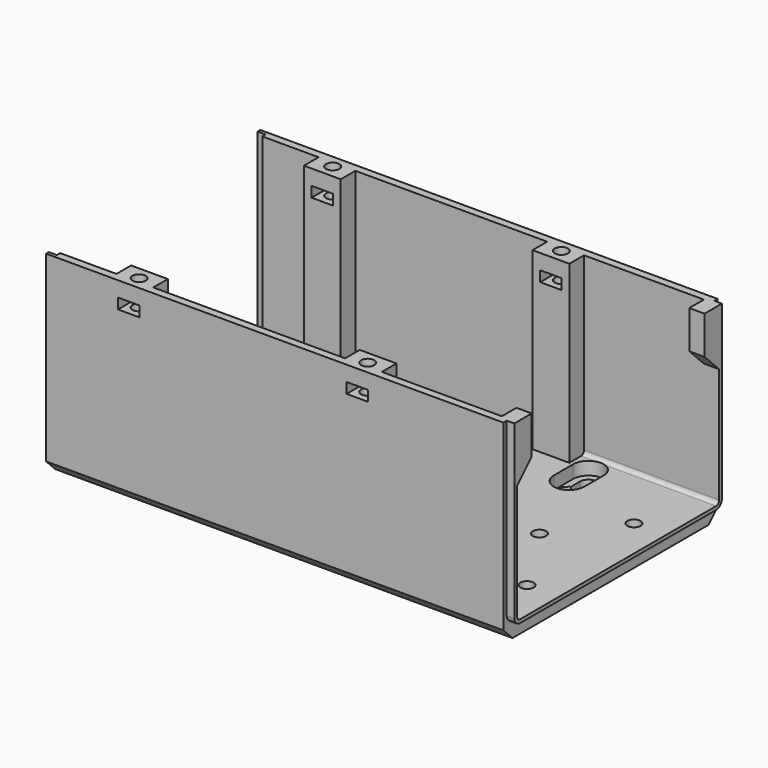
from build123d import *

# Parameters (mm, degrees)
PAD025_DEPTH         = 120
POCKET029_DEPTH      = 2.101
SKETCH085_W          = 9.65
SKETCH085_H          = 4.8
PAD026_DEPTH         = 46
SKETCH086_R          = 1.75
POCKET030_DEPTH      = 46.001
SKETCH087_R          = 1.75
POCKET031_DEPTH      = 5.001
SKETCH088_R          = 3
POCKET032_DEPTH      = 2.951
POCKET043_DEPTH      = 49.401
SKETCH089_W          = 5.65
SKETCH089_H          = 2.75
POCKET033_DEPTH      = 35.151
POCKET033_DEPTH_BACK = 35.151
PAD027_DEPTH         = 2
PAD028_DEPTH         = 4


with BuildPart() as part:
    # Sketch083 → Pad025 (new body)
    with BuildSketch(Plane.YZ.offset(-21.698)):
        with BuildLine():
            ThreePointArc((-33.15, 1), (-32.857107, 0.292893), (-32.15, 0))
            Line((-32.15, 0), (32.15, 0))
            ThreePointArc((32.15, 0), (32.857107, 0.292893), (33.15, 1))
            Line((33.15, 1), (33.15, 46))
            Line((33.15, 46), (35.15, 46))
            Line((35.15, 46), (35.15, -2))
            Line((35.15, -2), (32.15, -5))
            Line((32.15, -5), (-32.15, -5))
            Line((-32.15, -5), (-35.15, -2))
            Line((-35.15, -2), (-35.15, 46))
            Line((-35.15, 46), (-33.15, 46))
            Line((-33.15, 46), (-33.15, 1))
        make_face()
    extrude(amount=PAD025_DEPTH)

    # Sketch084 → Pocket029 (cut, through all)
    with BuildSketch(Plane.YZ.offset(-19.598)):
        with BuildLine():
            ThreePointArc((-33.15, 1), (-32.857107, 0.292893), (-32.15, 0))
            Line((-32.15, 0), (32.15, 0))
            ThreePointArc((32.15, 0), (32.857107, 0.292893), (33.15, 1))
            Line((33.15, 46), (33.15, 1))
            Line((34.25, 46), (33.15, 46))
            Line((34.25, 1), (34.25, 46))
            ThreePointArc((32.15, -1.1), (33.634924, -0.484924), (34.25, 1))
            Line((-32.15, -1.1), (32.15, -1.1))
            ThreePointArc((-34.25, 1), (-33.634924, -0.484924), (-32.15, -1.1))
            Line((-34.25, 46), (-34.25, 1))
            Line((-33.15, 46), (-34.25, 46))
            Line((-33.15, 1), (-33.15, 46))
        make_face()
    extrude(amount=-POCKET029_DEPTH, mode=Mode.SUBTRACT)

    # Sketch085 → Pad026 (join)
    with BuildSketch(Plane.XY):
        with Locations((0, 30.75)):
            Rectangle(SKETCH085_W, SKETCH085_H)
        with Locations((60, 30.75)):
            Rectangle(SKETCH085_W, SKETCH085_H)
        with Locations((60, -30.75)):
            Rectangle(SKETCH085_W, SKETCH085_H)
        with Locations((0, -30.75)):
            Rectangle(SKETCH085_W, SKETCH085_H)
    extrude(amount=PAD026_DEPTH)

    # Sketch086 → Pocket030 (cut, through all)
    with BuildSketch(Plane.XY):
        with Locations((0, 31.75)):
            Circle(SKETCH086_R)
        with Locations((60, 31.75)):
            Circle(SKETCH086_R)
        with Locations((60, -31.75)):
            Circle(SKETCH086_R)
        with Locations((0, -31.75)):
            Circle(SKETCH086_R)
    extrude(amount=POCKET030_DEPTH, mode=Mode.SUBTRACT)

    # Sketch087 → Pocket031 (cut, through all)
    with BuildSketch(Plane.XY):
        with Locations((-15.348, 15.621)):
            Circle(SKETCH087_R)
        with Locations((-15.348, -19.431)):
            Circle(SKETCH087_R)
        with Locations((19.652, 0)):
            Circle(SKETCH087_R)
        with Locations((31.952, 15.621)):
            Circle(SKETCH087_R)
        with Locations((31.952, -19.431)):
            Circle(SKETCH087_R)
        with Locations((44.652, -19.431)):
            Circle(SKETCH087_R)
        with Locations((44.652, 15.621)):
            Circle(SKETCH087_R)
        with Locations((79.652, 0)):
            Circle(SKETCH087_R)
        with Locations((91.952, 15.621)):
            Circle(SKETCH087_R)
        with Locations((91.952, -19.431)):
            Circle(SKETCH087_R)
        with BuildLine():
            ThreePointArc((12.025, 28.35), (9.825, 30.550014), (7.625, 28.35))
            Line((7.625, 28.35), (7.625, 25.35))
            ThreePointArc((7.625, 25.35), (9.825, 18.009341), (12.025, 25.35))
            Line((12.025, 28.35), (12.025, 25.35))
        make_face()
        with BuildLine():
            ThreePointArc((12.025, -25.35), (9.825, -18.009341), (7.625, -25.35))
            Line((7.625, -25.35), (7.625, -28.35))
            ThreePointArc((7.625, -28.35), (9.825, -30.550011), (12.025, -28.35))
            Line((12.025, -25.35), (12.025, -28.35))
        make_face()
        with BuildLine():
            ThreePointArc((72.025, -25.35), (69.825, -18.009341), (67.625, -25.35))
            Line((67.625, -25.35), (67.625, -28.35))
            ThreePointArc((67.625, -28.35), (69.825, -30.550013), (72.025, -28.35))
            Line((72.025, -28.35), (72.025, -25.35))
        make_face()
        with BuildLine():
            ThreePointArc((72.025, 28.35), (69.825, 30.550019), (67.625, 28.35))
            Line((67.625, 25.35), (67.625, 28.35))
            ThreePointArc((67.625, 25.35), (69.825, 18.009341), (72.025, 25.35))
            Line((72.025, 28.35), (72.025, 25.35))
        make_face()
    extrude(amount=-POCKET031_DEPTH, mode=Mode.SUBTRACT)

    # Sketch088 → Pocket032 (cut, through all)
    with BuildSketch(Plane.XY.offset(-2.05)):
        with Locations((-15.348, 15.621)):
            Circle(SKETCH088_R)
        with Locations((-15.348, -19.431)):
            Circle(SKETCH088_R)
        with Locations((19.652, 0)):
            Circle(SKETCH088_R)
        with Locations((31.952, 15.621)):
            Circle(SKETCH088_R)
        with Locations((44.652, 15.621)):
            Circle(SKETCH088_R)
        with Locations((31.952, -19.431)):
            Circle(SKETCH088_R)
        with Locations((44.652, -19.431)):
            Circle(SKETCH088_R)
        with Locations((79.652, 0)):
            Circle(SKETCH088_R)
        with Locations((91.952, 15.621)):
            Circle(SKETCH088_R)
        with Locations((91.952, -19.431)):
            Circle(SKETCH088_R)
    extrude(amount=-POCKET032_DEPTH, mode=Mode.SUBTRACT)

    # Sketch111 → Pocket043 (cut, through all)
    with BuildSketch(Plane.XY.offset(-3.4)):
        with BuildLine():
            ThreePointArc((13.825, 28.35), (9.825, 32.350021), (5.825, 28.35))
            Line((5.825, 28.35), (5.825, 22.009341))
            Line((5.825, 22.009341), (13.825, 22.009341))
            Line((13.825, 22.009341), (13.825, 28.35))
        make_face()
        with BuildLine():
            ThreePointArc((73.825, 28.35), (69.825, 32.350007), (65.825, 28.35))
            Line((65.825, 28.35), (65.825, 22.009341))
            Line((65.825, 22.009341), (73.825, 22.009341))
            Line((73.825, 22.009341), (73.825, 28.35))
        make_face()
        with BuildLine():
            ThreePointArc((65.825, -28.349974), (69.824987, -32.350002), (73.825, -28.35))
            Line((73.825, -22.009341), (73.825, -28.35))
            Line((65.825, -22.009341), (73.825, -22.009341))
            Line((65.825, -28.349974), (65.825, -22.009341))
        make_face()
        with BuildLine():
            ThreePointArc((5.825, -28.349974), (9.824987, -32.350002), (13.825, -28.35))
            Line((13.825, -28.35), (13.825, -22.009341))
            Line((13.825, -22.009341), (5.825, -22.009341))
            Line((5.825, -22.009341), (5.825, -28.349974))
        make_face()
    extrude(amount=POCKET043_DEPTH, mode=Mode.SUBTRACT)

    # Sketch089 → Pocket033 (cut, two sides)
    with BuildSketch(Plane.XZ) as pocket033_sk:
        with Locations((0, 40.625)):
            Rectangle(SKETCH089_W, SKETCH089_H)
        with Locations((60, 40.625)):
            Rectangle(SKETCH089_W, SKETCH089_H)
    extrude(amount=-POCKET033_DEPTH, mode=Mode.SUBTRACT)
    extrude(pocket033_sk.sketch, amount=POCKET033_DEPTH_BACK, mode=Mode.SUBTRACT)

    # Sketch090 → Pad027 (join)
    with BuildSketch(Plane.YZ.offset(98.302)):
        with BuildLine():
            ThreePointArc((-33.15, 1), (-32.857107, 0.292893), (-32.15, 0))
            Line((-32.15, 0), (32.15, 0))
            ThreePointArc((32.15, 0), (32.857107, 0.292893), (33.15, 1))
            Line((33.15, 46), (33.15, 1))
            Line((34.05, 46), (33.15, 46))
            Line((34.05, 1), (34.05, 46))
            ThreePointArc((32.15, -0.9), (33.493503, -0.343503), (34.05, 1))
            Line((-32.15, -0.9), (32.15, -0.9))
            ThreePointArc((-34.05, 1), (-33.493503, -0.343503), (-32.15, -0.9))
            Line((-34.05, 46), (-34.05, 1))
            Line((-33.15, 46), (-34.05, 46))
            Line((-33.15, 1), (-33.15, 46))
        make_face()
    extrude(amount=PAD027_DEPTH)

    # Sketch091 → Pad028 (join)
    with BuildSketch(Plane.YZ.offset(100.302)):
        Polygon((-33.15, 46), (-28.35, 46), (-28.35, 36), (-33.15, 31.2), align=None)
        Polygon((33.15, 46), (28.35, 46), (28.35, 36), (33.15, 31.2), align=None)
    extrude(amount=-PAD028_DEPTH)


solid = part.part
